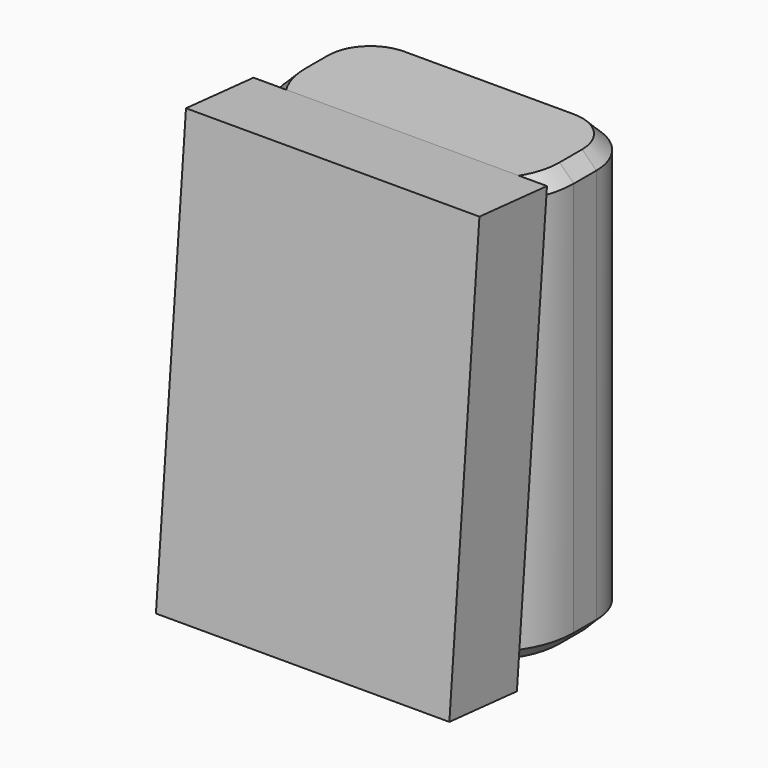
from build123d import *

# Parameters (mm, degrees)
F0_W     = 100
F0_H     = 150
F1_DEPTH = 60
F2_R     = 20
F3_R     = 30
F4_SIZE  = 5
F5_W     = 103.8893312216
F5_H     = 152.6583358645
F6_DEPTH = 30
F7_ANGLE = 10
F8_ANGLE = -15


with BuildPart() as f1:
    # F0 (on Front) → F1 (new body)
    with BuildSketch(Plane.XZ):
        with Locations((-0.7980808616, 0.120189786)):
            Rectangle(F0_W, F0_H)
    extrude(amount=F1_DEPTH)

    # F2
    f2_edges = [f1.edges().sort_by_distance(p)[0] for p in [
        (-50.798081, 0, 0.12019),
        (49.201919, 0, 0.12019),
    ]]
    fillet(f2_edges, radius=F2_R)

    # F3
    f3_edges = [f1.edges().sort_by_distance(p)[0] for p in [
        (49.201919, -60, 0.12019),
        (-50.798081, -60, 0.12019),
    ]]
    fillet(f3_edges, radius=F3_R)

    # F4
    f4_edges = [f1.edges().sort_by_distance(p)[0] for p in [
        (-50.798081, -25, -74.87981),
        (-42.011284, -51.213203, -74.87981),
        (-44.940216, -5.857864, -74.87981),
        (-0.798081, -60, -74.87981),
        (-0.798081, 0, -74.87981),
        (40.415123, -51.213203, -74.87981),
        (43.344055, -5.857864, -74.87981),
        (49.201919, -25, -74.87981),
        (49.201919, -25, 75.12019),
        (40.415123, -51.213203, 75.12019),
        (43.344055, -5.857864, 75.12019),
        (-0.798081, -60, 75.12019),
        (-0.798081, 0, 75.12019),
        (-42.011284, -51.213203, 75.12019),
        (-44.940216, -5.857864, 75.12019),
        (-50.798081, -25, 75.12019),
    ]]
    chamfer(f4_edges, length=F4_SIZE)


with BuildPart() as f6:
    # F5 (on Front) → F6 (new body)
    with BuildSketch(Plane.XZ):
        with Locations((-1.4112070203, -0.8080638945)):
            Rectangle(F5_W, F5_H)
    extrude(amount=F6_DEPTH)


with BuildPart() as f6_1:
    # F7: moved
    add(f6.part.rotate(Axis((-1.4112070203, 0, -77.1372318268), (1, 0, 0)), F7_ANGLE))


with BuildPart() as f6_2:
    # F8: moved
    add(f6_1.part.rotate(Axis((-1.4112070203, -26.5088418285, 73.2018808946), (1, 0, 0)), F8_ANGLE))


with BuildPart() as f6_3:
    # F9: moved
    add(f6_2.part.moved(Location((0, -17, 0))))


with BuildPart() as f6_4:
    # F10: moved
    add(f6_3.part.moved(Location((0, 0, 2.1))))


solid = Compound([f1.part, f6_4.part])
